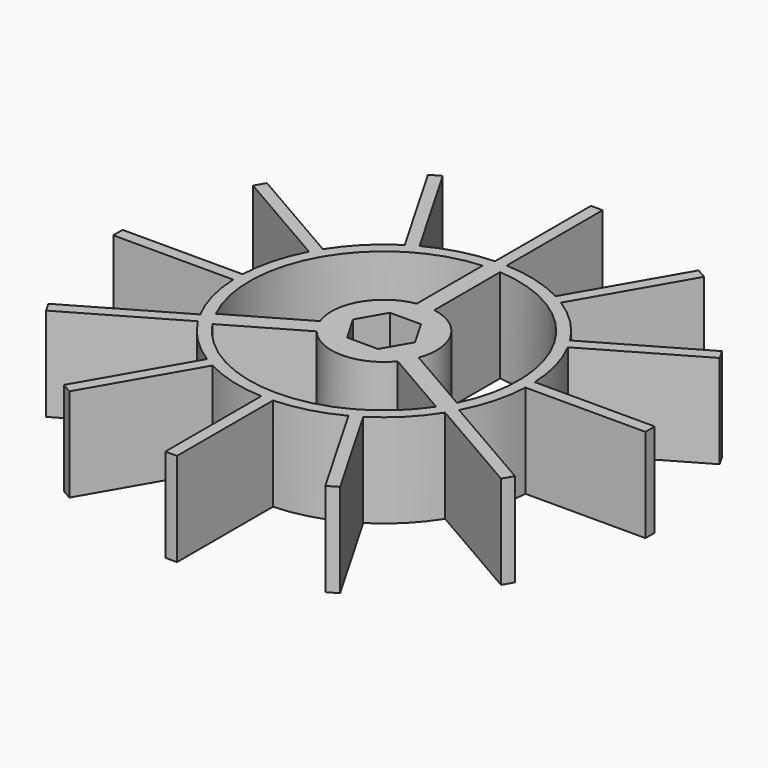
from build123d import *

# Parameters (mm, degrees)
SKETCH_R              = 25
PAD_DEPTH             = 16
PAD001_DEPTH          = 16
POLARPATTERN_COUNT    = 12
POCKET_DEPTH          = 16.001
POCKET001_DEPTH       = 275.369464
POLARPATTERN001_COUNT = 3


with BuildPart() as part:
    # Sketch → Pad (new body)
    with BuildSketch(Plane.XY):
        Circle(SKETCH_R)
    extrude(amount=PAD_DEPTH)

    # Sketch002 → Pad001 (join)
    with BuildSketch(Plane.XY):
        with BuildLine():
            Line((15.28351, 1), (45.48901, 1))
            ThreePointArc((45.48901, -1), (45.5, 0), (45.48901, 1))
            Line((15.28351, -1), (45.48901, -1))
            Line((15.28351, 1), (15.28351, -1))
        make_face()
    pad001 = extrude(amount=PAD001_DEPTH)

    # PolarPattern: Pad001 ×12 about axis
    polarpattern_axis = Axis((0, 0, 0), (0, 0, 1))
    for i in range(1, POLARPATTERN_COUNT):
        add(pad001.rotate(polarpattern_axis, i * 360 / POLARPATTERN_COUNT))

    # Sketch003 → Pocket (cut, through all)
    with BuildSketch(Plane.XY):
        Polygon((-5.3, 0), (-2.65, -4.589935), (2.65, -4.589935), (5.3, 0), (2.65, 4.589935), (-2.65, 4.589935), align=None)
    extrude(amount=POCKET_DEPTH, mode=Mode.SUBTRACT)

    # Sketch004 → Pocket001 (cut, through all)
    with BuildSketch(Plane.XY):
        with BuildLine():
            Line((-1.5, 22.951035), (-1.5, 8.87412))
            ThreePointArc((-1.5, 8.87412), (-7.794229, 4.5), (-8.435213, -3.138022))
            Line((-8.435213, -3.138022), (-20.626179, -10.176479))
            ThreePointArc((-1.5, 22.951035), (-19.918584, 11.5), (-20.626179, -10.176479))
        make_face()
    pocket001 = extrude(amount=POCKET001_DEPTH, mode=Mode.SUBTRACT)

    # PolarPattern001: Pocket001 ×3 about axis
    polarpattern001_axis = Axis((0, 0, 0), (0, 0, 1))
    for i in range(1, POLARPATTERN001_COUNT):
        add(pocket001.rotate(polarpattern001_axis, i * 360 / POLARPATTERN001_COUNT), mode=Mode.SUBTRACT)


solid = part.part
